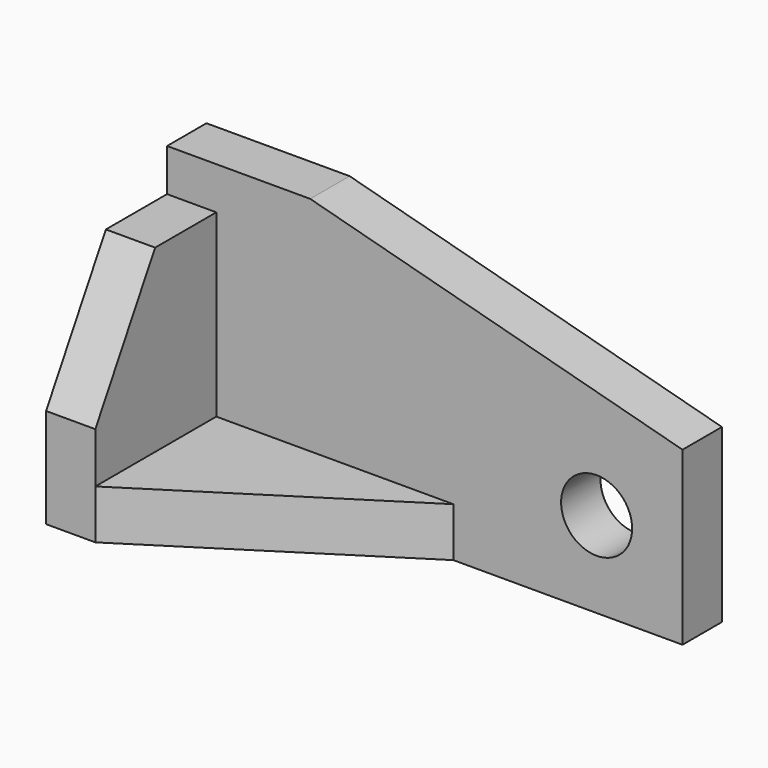
from build123d import *

# Parameters (mm, degrees)
F0_W     = 10.922
F0_H     = 33.528
F1_DEPTH = 10.922
F2_DEPTH = 60.198
F3_DEPTH = 50.8
F5_DEPTH = 10.923
F7_DEPTH = 114.301
F8_R     = 7.874
F9_DEPTH = 10.923


with BuildPart() as f1:
    # F0 (on Top) → F1 (new body)
    with BuildSketch(Plane.XY):
        Polygon((-1.453685, 44.10475), (-54.031685, 44.10475), (-54.031685, 10.57675), align=None)
        with Locations((-59.492685, 27.34075)):
            Rectangle(F0_W, F0_H)
    extrude(amount=F1_DEPTH)

    # F0 (on Top) → F2 (join)
    with BuildSketch(Plane.XY):
        Polygon((49.346315, 55.02675), (-64.953685, 55.02675), (-64.953685, 44.10475), (-54.031685, 44.10475), (-1.453685, 44.10475), (49.346315, 44.10475), align=None)
    extrude(amount=F2_DEPTH)

    # F0 (on Top) → F3 (join)
    with BuildSketch(Plane.XY):
        with Locations((-59.492685, 27.34075)):
            Rectangle(F0_W, F0_H)
    extrude(amount=F3_DEPTH)

    # F4 (on face) → F5 (cut, through all)
    with BuildSketch(Plane.XZ.offset(-44.10475)):
        Polygon((49.346315, 60.198), (-33.203685, 60.198), (49.346315, 38.078794), align=None)
    extrude(amount=-F5_DEPTH, mode=Mode.SUBTRACT)

    # F6 (on face) → F7 (cut, through all)
    with BuildSketch(Plane(origin=(-64.953685, 0, 0), x_dir=(0, -1, 0), z_dir=(-1, 0, 0))):
        Polygon((-27.147858, 50.8), (-10.57675, 22.098), (-10.57675, 50.8), align=None)
    extrude(amount=-F7_DEPTH, mode=Mode.SUBTRACT)

    # F8 (on face) → F9 (cut, through all)
    with BuildSketch(Plane.XZ.offset(-44.10475)):
        with Locations((30.296315, 19.05)):
            Circle(F8_R)
    extrude(amount=-F9_DEPTH, mode=Mode.SUBTRACT)


solid = f1.part
